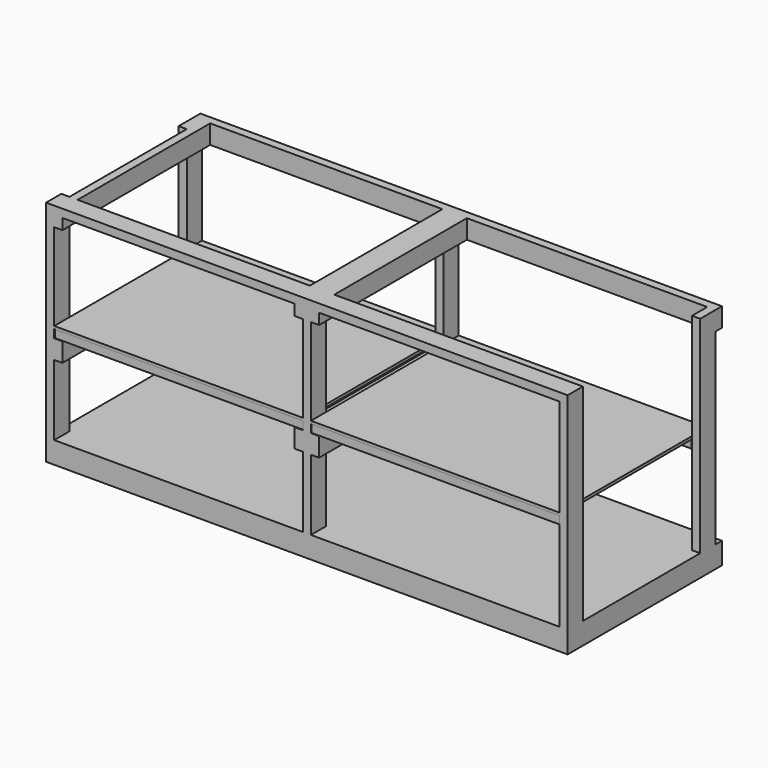
from build123d import *

# Parameters (mm, degrees)
F0_W           = 38.1
F0_H           = 88.9
F1_DEPTH       = 101.6
F2_DEPTH       = 927.1
F3_W           = 2438.4
F3_H           = 88.9
F4_DEPTH       = 38.1
F5_DEPTH       = 965.2
F6_W           = 2438.4
F6_H           = 88.9
F7_DEPTH       = 38.1
F8_W           = 88.9
F8_H           = 50.8
F9_DEPTH       = 38.1
F8_H_2         = 38.1
F8_W_2         = 3.175
F8_W_3         = 85.725
F10_DEPTH      = 1162.05
F11_W          = 863.6
F11_H          = 88.9
F12_DEPTH      = 38.1
F12_DEPTH_BACK = 76.2
F13_W          = 88.9
F13_H          = 38.1
F14_DEPTH      = 1162.05


with BuildPart() as f1:
    # F0 (on Top) → F1 (new body)
    with BuildSketch(Plane.XY):
        Polygon((38.1, 88.9), (38.1, 0), (1200.15, 0), (1200.15, 88.9), (1238.25, 88.9), (1238.25, 0), (2400.3, 0), (2400.3, 88.9), (2438.4, 88.9), (2438.4, 774.7), (2400.3, 774.7), (2400.3, 863.6), (1238.25, 863.6), (1238.25, 774.7), (1200.15, 774.7), (1200.15, 863.6), (38.1, 863.6), (38.1, 774.7), (0, 774.7), (0, 88.9), align=None)
        with Locations((19.05, 819.15)):
            Rectangle(F0_W, F0_H)
        with Locations((1219.2, 819.15)):
            Rectangle(F0_W, F0_H)
        with Locations((2419.35, 819.15)):
            Rectangle(F0_W, F0_H)
        with Locations((2419.35, 44.45)):
            Rectangle(F0_W, F0_H)
        with Locations((1219.2, 44.45)):
            Rectangle(F0_W, F0_H)
        with Locations((19.05, 44.45)):
            Rectangle(F0_W, F0_H)
        Polygon((0, 901.7), (0, 863.6), (38.1, 863.6), (1200.15, 863.6), (1238.25, 863.6), (2400.3, 863.6), (2438.4, 863.6), (2438.4, 901.7), align=None)
    extrude(amount=-F1_DEPTH)

    # F0 (on Top) → F2 (join)
    with BuildSketch(Plane.XY):
        with Locations((19.05, 44.45)):
            Rectangle(F0_W, F0_H)
        with Locations((2419.35, 44.45)):
            Rectangle(F0_W, F0_H)
        with Locations((1219.2, 44.45)):
            Rectangle(F0_W, F0_H)
    extrude(amount=F2_DEPTH)

    # F3 (on face) → F4 (join)
    with BuildSketch(Plane.XY.offset(927.1)):
        with Locations((1219.2, 44.45)):
            Rectangle(F3_W, F3_H)
    extrude(amount=F4_DEPTH)

    # F0 (on Top) → F5 (join)
    with BuildSketch(Plane.XY):
        with Locations((19.05, 819.15)):
            Rectangle(F0_W, F0_H)
        with Locations((1219.2, 819.15)):
            Rectangle(F0_W, F0_H)
        with Locations((2419.35, 819.15)):
            Rectangle(F0_W, F0_H)
    extrude(amount=F5_DEPTH)

    # F6 (on face) → F7 (join)
    with BuildSketch(Plane(origin=(0, 863.6, 0), x_dir=(-1, 0, 0), z_dir=(0, 1, 0))):
        with Locations((-1219.2, 920.75)):
            Rectangle(F6_W, F6_H)
    extrude(amount=F7_DEPTH)

    # F8 (on face) → F9 (join)
    with BuildSketch(Plane.YZ.offset(38.1)):
        with Locations((44.45, 901.7)):
            Rectangle(F8_W, F8_H)
        Polygon((863.6, 965.2), (0, 965.2), (0, 927.1), (88.9, 927.1), (88.9, 876.3), (863.6, 876.3), align=None)
        Polygon((3.175, 419.1), (0, 419.1), (0, 330.2), (88.9, 330.2), (88.9, 419.1), align=None)
        Polygon((92.075, 419.1), (88.9, 419.1), (88.9, 330.2), (863.6, 330.2), (863.6, 419.1), (774.7, 419.1), align=None)
    extrude(amount=F9_DEPTH)

    # F8 (on face) → F10 (join, through all)
    with BuildSketch(Plane.YZ.offset(38.1)):
        Polygon((88.9, 469.9), (0, 469.9), (0, 457.2), (3.175, 457.2), (88.9, 457.2), align=None)
        Polygon((863.6, 469.9), (88.9, 469.9), (88.9, 457.2), (92.075, 457.2), (774.7, 457.2), (863.6, 457.2), align=None)
        with Locations((819.15, 438.15)):
            Rectangle(F8_W, F8_H_2)
        with Locations((90.4875, 438.15)):
            Rectangle(F8_W_2, F8_H_2)
        with Locations((46.0375, 438.15)):
            Rectangle(F8_W_3, F8_H_2)
    extrude(amount=F10_DEPTH)

    # F11 (on face) → F12 (join, two sides)
    with BuildSketch(Plane.YZ.offset(1238.25)) as f12_sk:
        with Locations((431.8, 920.75)):
            Rectangle(F11_W, F11_H)
        with Locations((431.8, 374.65)):
            Rectangle(F11_W, F11_H)
    extrude(amount=F12_DEPTH)
    extrude(f12_sk.sketch, amount=-F12_DEPTH_BACK)

    # F13 (on face) → F14 (join, through all)
    with BuildSketch(Plane.YZ.offset(1238.25)):
        Polygon((863.6, 469.9), (0, 469.9), (0, 457.2), (3.175, 457.2), (92.075, 457.2), (771.525, 457.2), (860.425, 457.2), (863.6, 457.2), align=None)
        with Locations((47.625, 438.15)):
            Rectangle(F13_W, F13_H)
        with Locations((815.975, 438.15)):
            Rectangle(F13_W, F13_H)
    extrude(amount=F14_DEPTH)


solid = f1.part
